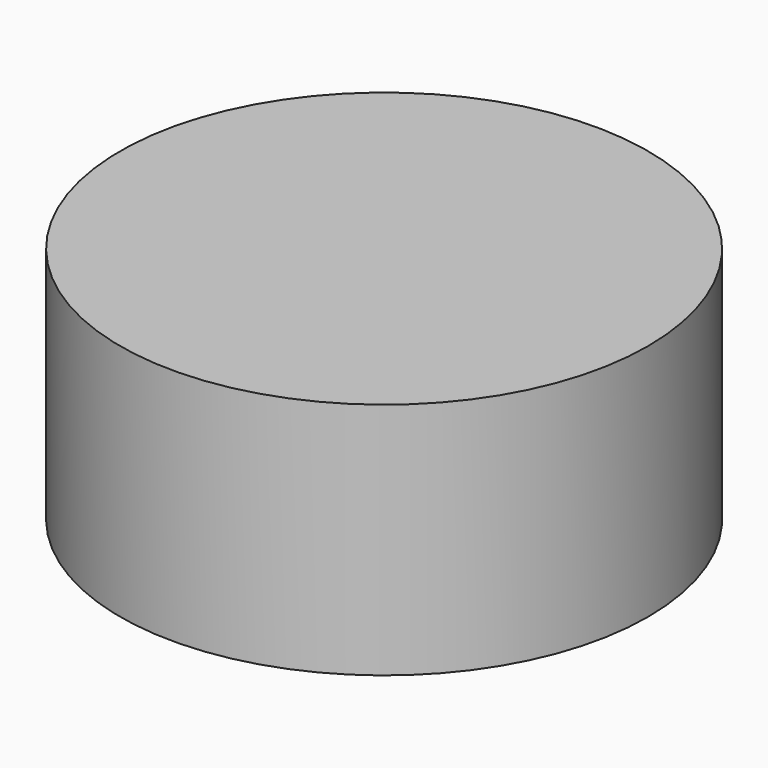
from build123d import *

# Parameters (mm, degrees)
F1_R     = 28.1302146261
F2_DEPTH = 25.4


with BuildPart() as f2:
    # F1 (on face) → F2 (new body)
    with BuildSketch(Plane.XY):
        with Locations((-44.5178598166, 40.7384186983)):
            Circle(F1_R)
    extrude(amount=F2_DEPTH)


solid = f2.part
